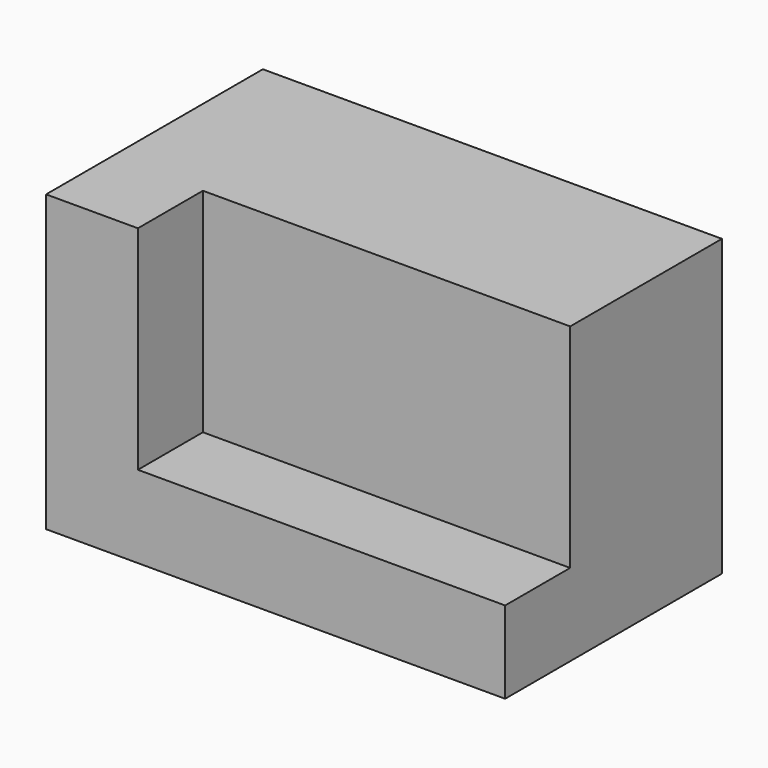
from build123d import *

# Parameters (mm, degrees)
F0_W     = 84.706194
F0_H     = 54.390288
F1_DEPTH = 50
F3_DEPTH = 15


with BuildPart() as f1:
    # F0 (on Front) → F1 (new body)
    with BuildSketch(Plane.XZ):
        Rectangle(F0_W, F0_H)
    extrude(amount=-F1_DEPTH)

    # F2 (on Front) → F3 (cut)
    with BuildSketch(Plane.XZ):
        Polygon((42.353097, 27.195144), (-25.411863, 27.195144), (-25.411863, 9.808084), (-25.411863, -12.037199), (42.353097, -12.037199), align=None)
    extrude(amount=-F3_DEPTH, mode=Mode.SUBTRACT)


solid = f1.part
